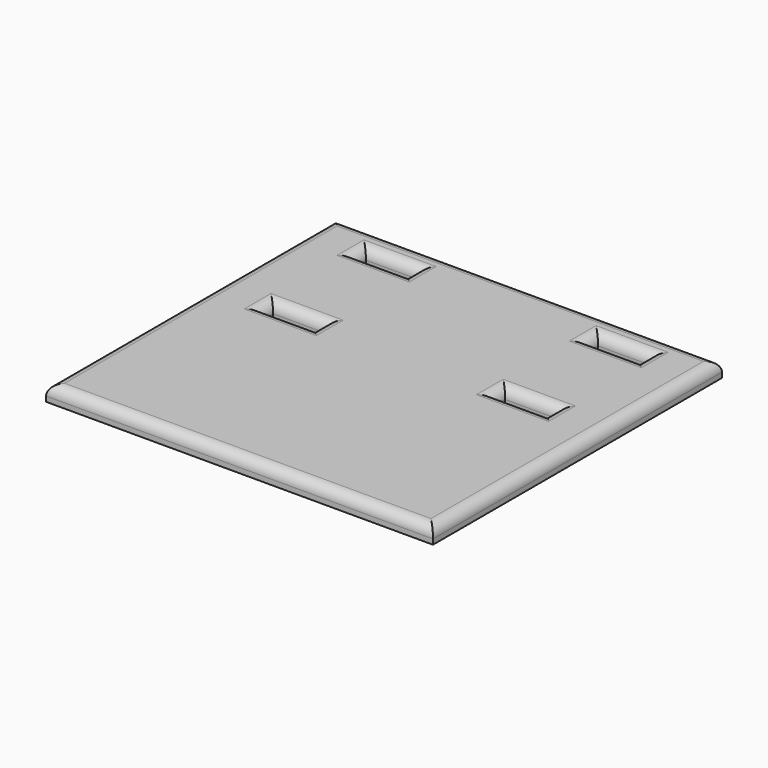
from build123d import *

# Parameters (mm, degrees)
F0_W     = 37.5
F0_H     = 10
F0_W_2   = 10
F0_H_2   = 2.5
F0_H_3   = 60
F1_DEPTH = 3
F2_R     = 2


with BuildPart() as f1:
    # F0 (on Top) → F1 (new body)
    with BuildSketch(Plane.XY):
        with Locations((17.630625, 10.311104)):
            Rectangle(F0_W, F0_H)
        with Locations((21.380625, 9.061104)):
            Rectangle(F0_W_2, F0_H_2, mode=Mode.SUBTRACT)
        with Locations((-19.869375, 10.311104)):
            Rectangle(F0_W, F0_H)
        with Locations((-23.619375, 9.061104)):
            Rectangle(F0_W_2, F0_H_2, mode=Mode.SUBTRACT)
        with Locations((-19.869375, -24.688896)):
            Rectangle(F0_W, F0_H_3)
        with Locations((-23.619375, -13.438896)):
            Rectangle(F0_W_2, F0_H_2, mode=Mode.SUBTRACT)
        with Locations((17.630625, -24.688896)):
            Rectangle(F0_W, F0_H_3)
        with Locations((21.380625, -13.438896)):
            Rectangle(F0_W_2, F0_H_2, mode=Mode.SUBTRACT)
    extrude(amount=F1_DEPTH)

    # F2
    f2_edges = [f1.edges().sort_by_distance(p)[0] for p in [
        (-1.119375, 15.311104, 3),
        (-38.619375, -19.688896, 3),
        (-23.619375, 10.311104, 3),
        (-23.619375, 7.811104, 3),
        (-18.619375, 9.061104, 3),
        (-28.619375, 9.061104, 3),
        (-1.119375, -54.688896, 3),
        (36.380625, -19.688896, 3),
        (21.380625, 7.811104, 3),
        (16.380625, 9.061104, 3),
        (21.380625, 10.311104, 3),
        (26.380625, 9.061104, 3),
        (-28.619375, -13.438896, 3),
        (-23.619375, -12.188896, 3),
        (-18.619375, -13.438896, 3),
        (-23.619375, -14.688896, 3),
        (21.380625, -12.188896, 3),
        (26.380625, -13.438896, 3),
        (21.380625, -14.688896, 3),
        (16.380625, -13.438896, 3),
    ]]
    fillet(f2_edges, radius=F2_R)


solid = f1.part
